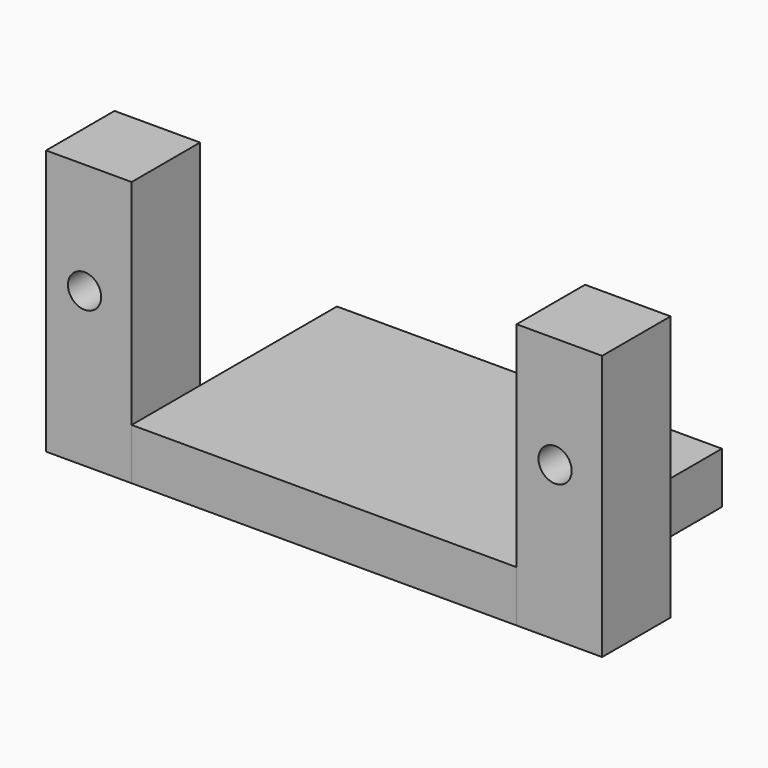
from build123d import *

# Parameters (mm, degrees)
BOX_W                  = 22.5
BOX_H                  = 15
BOX_DEPTH              = 3
CYLINDER_R             = 0.97
CYLINDER_DEPTH         = 10
CYLINDER_ROLL_ANGLE    = 90
BOX001_W               = 5
BOX001_H               = 5
BOX001_DEPTH           = 15.5
CYLINDER001_R          = 0.97
CYLINDER001_DEPTH      = 10
CYLINDER001_ROLL_ANGLE = 90
BOX002_W               = 5
BOX002_H               = 5
BOX002_DEPTH           = 15.5


with BuildPart() as box:
    # Box → Box (new body)
    with BuildSketch(Plane.XY):
        with Locations((11.25, 7.5)):
            Rectangle(BOX_W, BOX_H)
    extrude(amount=BOX_DEPTH)


with BuildPart() as cylinder:
    # Cylinder → Cylinder (new body)
    with BuildSketch(Plane.XY):
        Circle(CYLINDER_R)
    extrude(amount=CYLINDER_DEPTH)


with BuildPart() as cylinder_1:
    # Cylinder roll: moved
    add(cylinder.part.rotate(Axis((0, 0, 0), (1, 0, 0)), CYLINDER_ROLL_ANGLE))


with BuildPart() as cylinder_2:
    # Cylinder placement: moved
    add(cylinder_1.part.moved(Location((-2.75, 7, 9))))


with BuildPart() as cut:
    # Box001 → Box001 (new body)
    with BuildSketch(Plane(origin=(-5, 0, 0), x_dir=(1, 0, 0), z_dir=(0, 0, 1))):
        with Locations((2.5, 2.5)):
            Rectangle(BOX001_W, BOX001_H)
    extrude(amount=BOX001_DEPTH)

    # Cut: cut Cylinder
    add(cylinder_2.part, mode=Mode.SUBTRACT)


with BuildPart() as cylinder001:
    # Cylinder001 → Cylinder001 (new body)
    with BuildSketch(Plane.XY):
        Circle(CYLINDER001_R)
    extrude(amount=CYLINDER001_DEPTH)


with BuildPart() as cylinder001_1:
    # Cylinder001 roll: moved
    add(cylinder001.part.rotate(Axis((0, 0, 0), (1, 0, 0)), CYLINDER001_ROLL_ANGLE))


with BuildPart() as cylinder001_2:
    # Cylinder001 placement: moved
    add(cylinder001_1.part.moved(Location((24.75, 7, 9))))


with BuildPart() as cut001:
    # Box002 → Box002 (new body)
    with BuildSketch(Plane(origin=(22.5, 0, 0), x_dir=(1, 0, 0), z_dir=(0, 0, 1))):
        with Locations((2.5, 2.5)):
            Rectangle(BOX002_W, BOX002_H)
    extrude(amount=BOX002_DEPTH)

    # Cut001: cut Cylinder001
    add(cylinder001_2.part, mode=Mode.SUBTRACT)


solid = Compound([box.part, cut.part, cut001.part])
